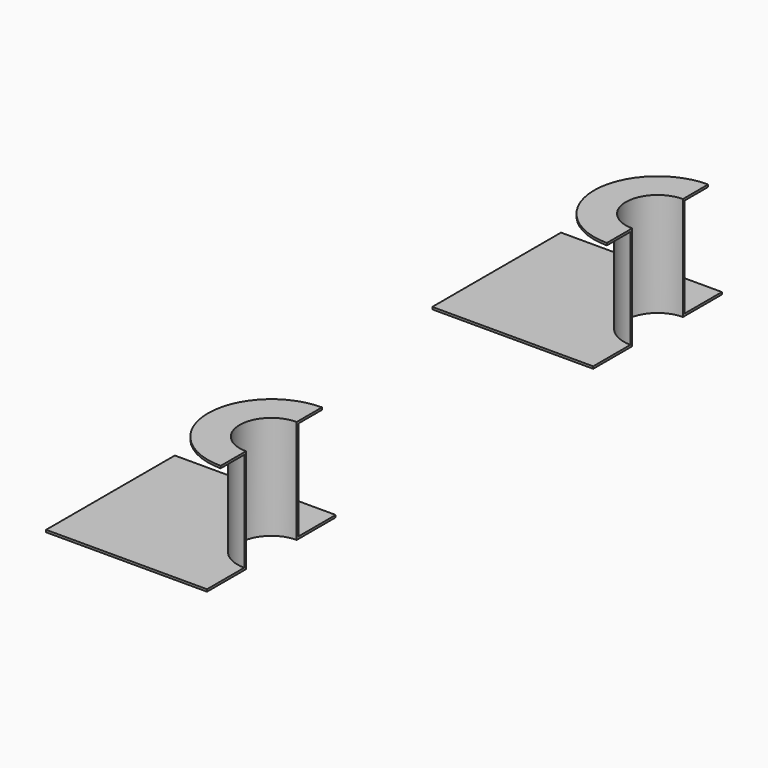
from build123d import *

# Parameters (mm, degrees)
PAD002_DEPTH     = 0.0348
PAD003_DEPTH     = 1.6048
PAD004_DEPTH     = 0.0348
ARRAY001_Y_COUNT = 2
ARRAY001_Y_PITCH = 7.62


with BuildPart() as part:
    # Sketch004 → Pad002 (new body)
    with BuildSketch(Plane.XY):
        with BuildLine():
            Line((-2.54, 1.27), (-2.54, -1.27))
            Line((-2.54, -1.27), (0, -1.27))
            Line((0, -1.27), (0, -0.5))
            ThreePointArc((0, 0.5), (-0.5, 0), (0, -0.5))
            Line((0, 0.5), (0, 1.27))
            Line((0, 1.27), (-2.54, 1.27))
        make_face()
    extrude(amount=PAD002_DEPTH)

    # Sketch005 → Pad003 (join)
    with BuildSketch(Plane.XY):
        with BuildLine():
            ThreePointArc((0, 0.5348), (-0.5348, 0), (0, -0.5348))
            Line((0, -0.5), (0, -0.5348))
            ThreePointArc((0, 0.5), (-0.5, 0), (0, -0.5))
            Line((0, 0.5348), (0, 0.5))
        make_face()
    extrude(amount=PAD003_DEPTH)

    # Sketch006 → Pad004 (join)
    with BuildSketch(Plane.XY.offset(1.6048)):
        with BuildLine():
            ThreePointArc((0, 0.5), (-0.5, 0), (0, -0.5))
            Line((0, -0.5), (0, -1))
            ThreePointArc((0, 1), (-1, 0), (0, -1))
            Line((0, 1), (0, 0.5))
        make_face()
    extrude(amount=PAD004_DEPTH)

    # Array001 Y: part ×2


with BuildPart() as part_1:
    add(part.part)
    with Locations(*[(0, i * ARRAY001_Y_PITCH, 0) for i in range(1, ARRAY001_Y_COUNT)]):
        add(part.part)


with BuildPart() as part_2:
    # Array001 placement: moved
    add(part_1.part.moved(Location((12.7, -3.81, 0))))


solid = part_2.part
